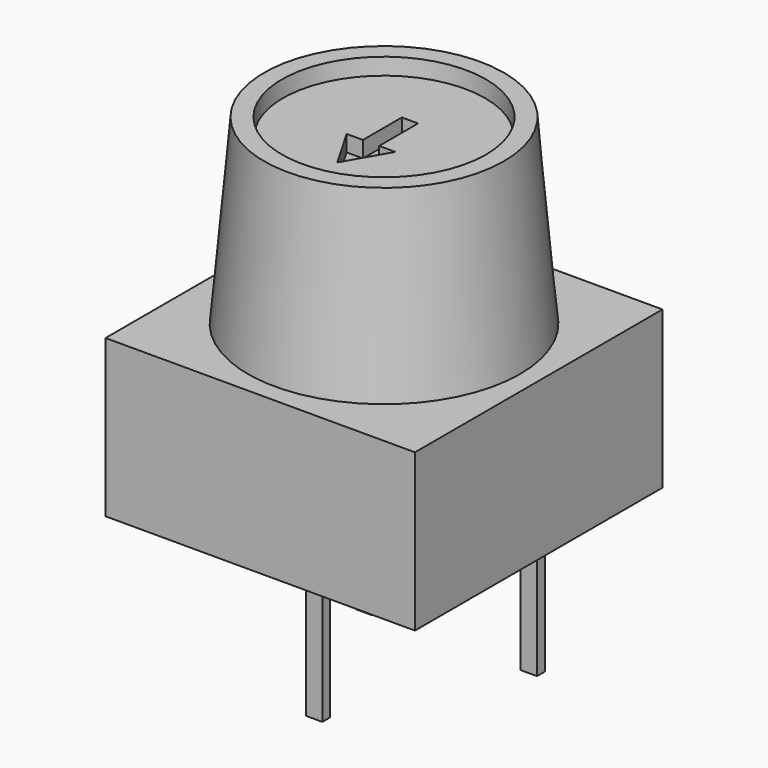
from build123d import *

# Parameters (mm, degrees)
F0_W      = 9.52
F0_H      = 9.52
F1_DEPTH  = 4.83
F4_R      = 4.19
F11_R     = 3.69
F12_R     = 3.19
F12_W     = 0.5
F12_H     = 1.5
F12_H_2   = 0.5
F8_DEPTH  = 1.5
F8_TAPER  = 3
F13_DEPTH = 2
F9_W      = 0.51
F9_H      = 0.3
F10_DEPTH = 4.78


with BuildPart() as f1:
    # F0 (on Top) → F1 (new body)
    with BuildSketch(Plane.XY):
        Rectangle(F0_W, F0_H)
    extrude(amount=F1_DEPTH)


with BuildPart() as f6:
    # F4 (on offset) → F6 section 0
    with BuildSketch(Plane.XY.offset(4.83)):
        Circle(F4_R)
    # F11 (on offset) → F6 section 1
    with BuildSketch(Plane.XY.offset(10.43)):
        Circle(F11_R)
    loft()

    # F12 (on offset) → F8 (cut)
    with BuildSketch(Plane.XY.offset(11.43)):
        Circle(F12_R)
        Polygon((0.25, 1), (0.25, -0.5), (0.7483314774, -0.5), (0, -1.8), (-0.7483314774, -0.5), (-0.25, -0.5), (-0.25, 1), align=None, mode=Mode.SUBTRACT)
        with Locations((0, 0.25)):
            Rectangle(F12_W, F12_H)
        Polygon((0.25, -0.5), (0.25, -1), (-0.25, -1), (-0.25, -0.5), (-0.7483314774, -0.5), (0, -1.8), (0.7483314774, -0.5), align=None)
        with Locations((0, -0.75)):
            Rectangle(F12_W, F12_H_2)
    extrude(amount=-F8_DEPTH, taper=F8_TAPER, mode=Mode.SUBTRACT)

    # F12 (on offset) → F13 (cut)
    with BuildSketch(Plane.XY.offset(11.43)):
        Polygon((0.25, -0.5), (0.25, -1), (-0.25, -1), (-0.25, -0.5), (-0.7483314774, -0.5), (0, -1.8), (0.7483314774, -0.5), align=None)
        with Locations((0, 0.25)):
            Rectangle(F12_W, F12_H)
        with Locations((0, -0.75)):
            Rectangle(F12_W, F12_H_2)
    extrude(amount=-F13_DEPTH, mode=Mode.SUBTRACT)


with BuildPart() as f10:
    # F9 (on face) → F10 (new body)
    with BuildSketch(Plane(origin=(0, 0, 0), x_dir=(1, 0, 0), z_dir=(0, 0, -1))):
        with Locations((-2.54, -2.54)):
            Rectangle(F9_W, F9_H)
    extrude(amount=F10_DEPTH)


with BuildPart() as f10b:
    # F9 (on face) → F10, piece 2 (new body)
    with BuildSketch(Plane(origin=(0, 0, 0), x_dir=(1, 0, 0), z_dir=(0, 0, -1))):
        with Locations((2.54, -2.54)):
            Rectangle(F9_W, F9_H)
    extrude(amount=F10_DEPTH)


with BuildPart() as f10c:
    # F9 (on face) → F10, piece 3 (new body)
    with BuildSketch(Plane(origin=(0, 0, 0), x_dir=(1, 0, 0), z_dir=(0, 0, -1))):
        with Locations((0, 2.54)):
            Rectangle(F9_W, F9_H)
    extrude(amount=F10_DEPTH)


solid = Compound([f1.part, f6.part, f10.part, f10b.part, f10c.part])
